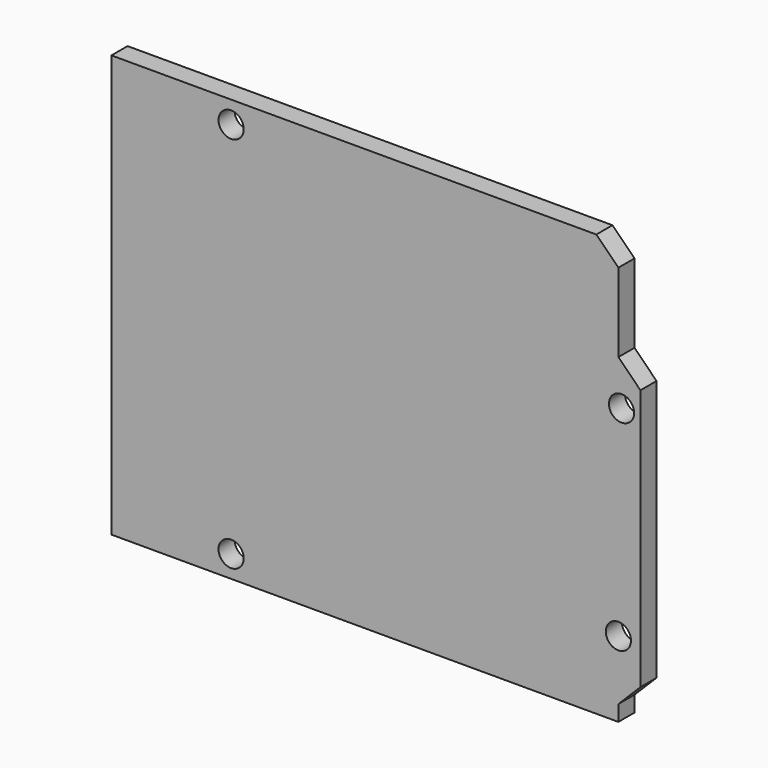
from build123d import *

# Parameters (mm, degrees)
F0_W     = 66.675
F0_H     = 53.18125
F1_DEPTH = 2.54
F3_DEPTH = 25.4
F4_R     = 1.5875
F5_DEPTH = 25.4


with BuildPart() as f1:
    # F0 (on Front) → F1 (new body)
    with BuildSketch(Plane.XZ):
        Rectangle(F0_W, F0_H)
    extrude(amount=F1_DEPTH)

    # F2 (on face) → F3 (cut)
    with BuildSketch(Plane.XZ.offset(2.54)):
        Polygon((33.3375, 26.590625), (27.78125, 26.590625), (30.559375, 23.8125), (30.559375, 13.890625), (33.3375, 11.1125), align=None)
        Polygon((33.3375, -26.590625), (33.3375, -21.828125), (30.559375, -24.60625), (30.559375, -26.590625), align=None)
    extrude(amount=-F3_DEPTH, mode=Mode.SUBTRACT)

    # F4 (on face) → F5 (cut)
    with BuildSketch(Plane.XZ.offset(2.54)):
        with Locations((30.95625, 8.331274)):
            Circle(F4_R)
        with Locations((30.559375, -17.065625)):
            Circle(F4_R)
        with Locations((-18.25625, -23.8125)):
            Circle(F4_R)
        with Locations((-18.25625, 23.8125)):
            Circle(F4_R)
    extrude(amount=-F5_DEPTH, mode=Mode.SUBTRACT)


solid = f1.part
